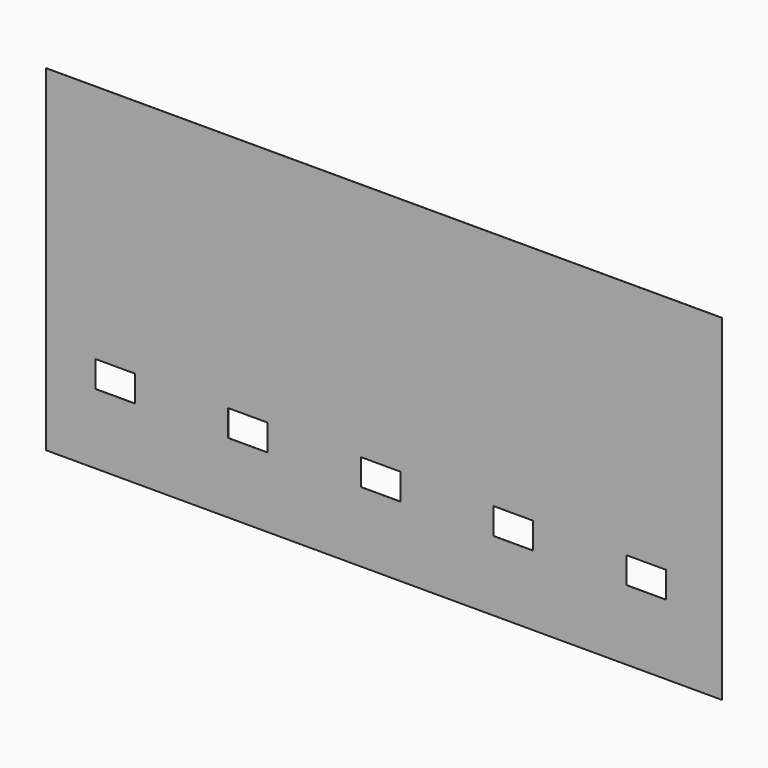
from build123d import *

# Parameters (mm, degrees)
F0_W     = 15627.35
F0_H     = 7778.75
F1_DEPTH = 3.175
F4_W     = 914.4
F4_H     = 609.6
F5_DEPTH = 3.175
F3_W     = 304.8
F3_H     = 304.8
F6_DEPTH = 6.35


with BuildPart() as f1:
    # F0 (on Front) → F1 (new body)
    with BuildSketch(Plane.XZ):
        with Locations((7813.675, 3889.375)):
            Rectangle(F0_W, F0_H)
    extrude(amount=F1_DEPTH)

    # F4 (on face) → F5 (cut, through all)
    with BuildSketch(Plane.XZ.offset(3.175)):
        with Locations((1600.2, 1924.05)):
            Rectangle(F4_W, F4_H)
        with Locations((4668.8375, 1924.05)):
            Rectangle(F4_W, F4_H)
        with Locations((7737.475, 1924.05)):
            Rectangle(F4_W, F4_H)
        with Locations((10806.1125, 1924.05)):
            Rectangle(F4_W, F4_H)
        with Locations((13874.75, 1924.05)):
            Rectangle(F4_W, F4_H)
    extrude(amount=-F5_DEPTH, mode=Mode.SUBTRACT)

    # F3 (on face) → F6 (join)
    with BuildSketch(Plane.XZ.offset(3.175)):
        with Locations((3216.275, 1346.2)):
            Rectangle(F3_W, F3_H)
        with Locations((6280.15, 1346.2)):
            Rectangle(F3_W, F3_H)
        with Locations((9344.025, 1346.2)):
            Rectangle(F3_W, F3_H)
        with Locations((12407.9, 1346.2)):
            Rectangle(F3_W, F3_H)
    extrude(amount=-F6_DEPTH)


solid = f1.part
